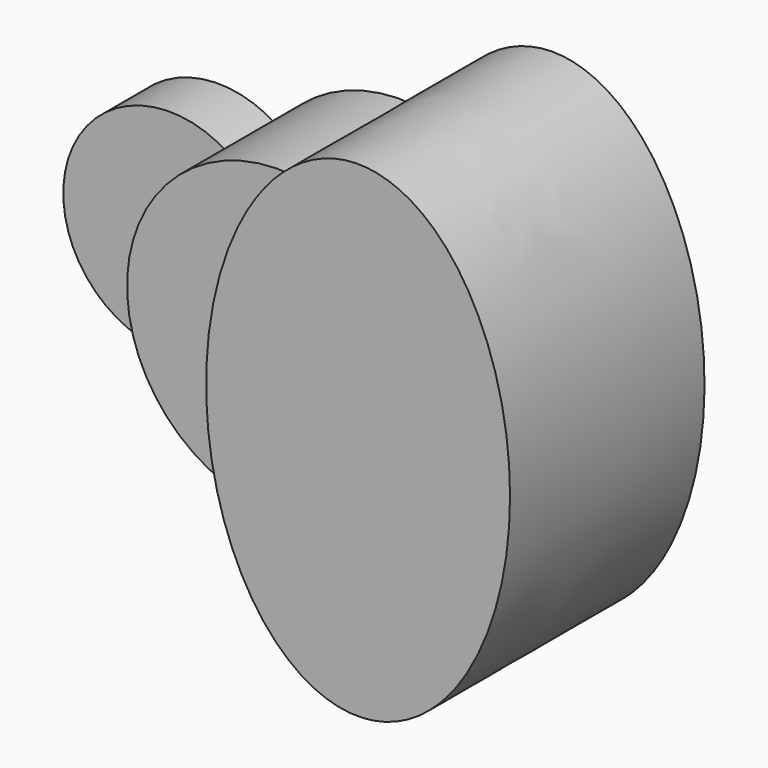
from build123d import *

# Parameters (mm, degrees)
F1_DEPTH = 25.4
F2_DEPTH = 63.5
F3_DEPTH = 101.6


with BuildPart() as f1:
    # F0 (on Front) → F1 (new body)
    with BuildSketch(Plane.XZ):
        with BuildLine():
            ThreePointArc((-51.59375, -37.0180356169), (-60.4501990278, -19.4428248333), (-63.5, 0))
            ThreePointArc((-63.5, 0), (-60.4501990278, 19.4428248333), (-51.59375, 37.0180356169))
            ThreePointArc((-51.59375, 37.0180356169), (-120.65, 0), (-51.59375, -37.0180356169))
        make_face()
    extrude(amount=F1_DEPTH)

    # F0 (on Front) → F2 (join)
    with BuildSketch(Plane.XZ):
        with BuildLine():
            Line((-31.75, 0), (0, 0))
            add(Edge.make_bspline(
                [(13.2439655959, 62.1035214404), (0, 34.6669399309), (0, 0)],
                knots=[0.9131508081, 0.9131508081, 0.9131508081, 1.5707963268, 1.5707963268, 1.5707963268], degree=2, weights=[1, 0.9464231645, 1]))
            ThreePointArc((13.2439655959, 62.1035214404), (-22.9128106244, 59.2220660674), (-51.59375, 37.0180356169))
            ThreePointArc((-51.59375, 37.0180356169), (-37.0237934934, 21.0006510316), (-31.75, 0))
        make_face()
        with BuildLine():
            Line((-63.5, 0), (-31.75, 0))
            ThreePointArc((-31.75, 0), (-37.0237934934, 21.0006510316), (-51.59375, 37.0180356169))
            ThreePointArc((-51.59375, 37.0180356169), (-60.4501990278, 19.4428248333), (-63.5, 0))
        make_face()
        with BuildLine():
            ThreePointArc((-51.59375, -37.0180356169), (-37.0237934934, -21.0006510316), (-31.75, 0))
            Line((-31.75, 0), (-63.5, 0))
            ThreePointArc((-63.5, 0), (-60.4501990278, -19.4428248333), (-51.59375, -37.0180356169))
        make_face()
        with BuildLine():
            add(Edge.make_bspline(
                [(0, 0), (0, -34.6669399309), (13.2439655959, -62.1035214404)],
                knots=[1.5707963268, 1.5707963268, 1.5707963268, 2.2284418454, 2.2284418454, 2.2284418454], degree=2, weights=[1, 0.9464231645, 1]))
            Line((0, 0), (-31.75, 0))
            ThreePointArc((-31.75, 0), (-37.0237934934, -21.0006510316), (-51.59375, -37.0180356169))
            ThreePointArc((-51.59375, -37.0180356169), (-22.9128106244, -59.2220660674), (13.2439655959, -62.1035214404))
        make_face()
    extrude(amount=F2_DEPTH)

    # F0 (on Front) → F3 (join)
    with BuildSketch(Plane.XZ):
        with BuildLine():
            add(Edge.make_bspline(
                [(63.5, 101.6), (32.3093875408, 101.6), (13.2439655959, 62.1035214404)],
                knots=[0, 0, 0, 0.9131508081, 0.9131508081, 0.9131508081], degree=2, weights=[1, 0.8975675831, 1]))
            ThreePointArc((13.2439655959, 62.1035214404), (49.3621404284, 39.9453262889), (63.5, 0))
            Line((63.5, 0), (63.5, 101.6))
        make_face()
        with BuildLine():
            ThreePointArc((63.5, 0), (49.3621404284, -39.9453262889), (13.2439655959, -62.1035214404))
            add(Edge.make_bspline(
                [(13.2439655959, -62.1035214404), (75.5537087854, -191.1861844445), (120.4955415237, -44.7930922222), (165.437374262, 101.6), (63.5, 101.6)],
                knots=[2.2284418454, 2.2284418454, 2.2284418454, 4.2558135763, 4.2558135763, 6.2831853072, 6.2831853072, 6.2831853072], degree=2, weights=[1, 0.5287358074, 1, 0.5287358074, 1]))
            Line((63.5, 101.6), (63.5, 0))
        make_face()
        with BuildLine():
            add(Edge.make_bspline(
                [(13.2439655959, 62.1035214404), (0, 34.6669399309), (0, 0)],
                knots=[0.9131508081, 0.9131508081, 0.9131508081, 1.5707963268, 1.5707963268, 1.5707963268], degree=2, weights=[1, 0.9464231645, 1]))
            add(Edge.make_bspline(
                [(0, 0), (0, -34.6669399309), (13.2439655959, -62.1035214404)],
                knots=[1.5707963268, 1.5707963268, 1.5707963268, 2.2284418454, 2.2284418454, 2.2284418454], degree=2, weights=[1, 0.9464231645, 1]))
            ThreePointArc((13.2439655959, -62.1035214404), (49.3621404284, -39.9453262889), (63.5, 0))
            ThreePointArc((63.5, 0), (49.3621404284, 39.9453262889), (13.2439655959, 62.1035214404))
        make_face()
    extrude(amount=F3_DEPTH)


solid = f1.part
